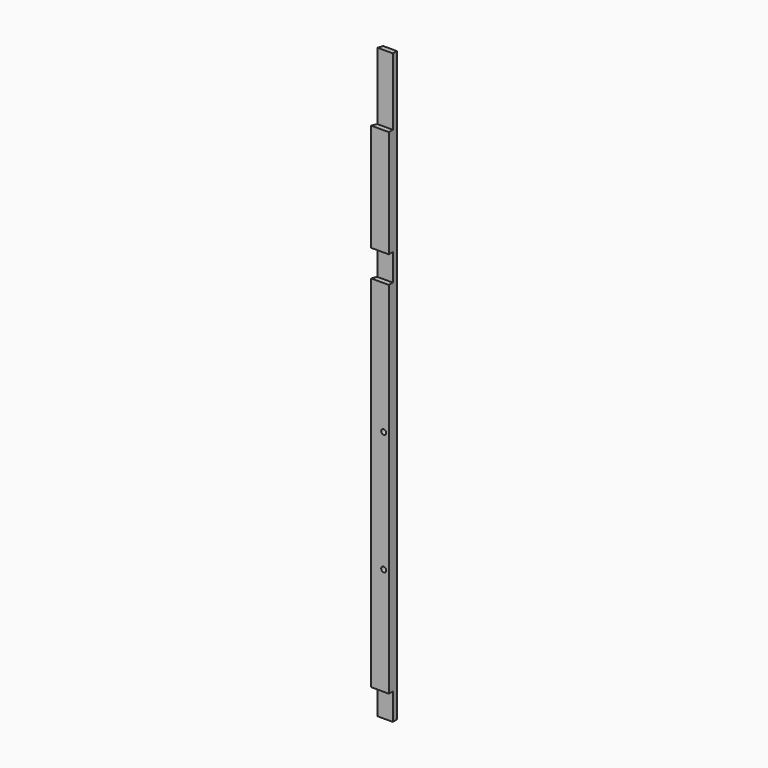
from build123d import *

# Parameters (mm, degrees)
F1_DEPTH = 1111.25
F2_W     = 122.435573
F2_H     = 50.8
F2_W_2   = 93.867282
F2_W_3   = 343.160421
F2_H_2   = 127
F3_DEPTH = 25.4
F4_R     = 0.79375
F5_DEPTH = 25.4
F6_R     = 4.7625
F7_DEPTH = 25.4


with BuildPart() as f1:
    # F0 (on Top) → F1 (new body)
    with BuildSketch(Plane.XY):
        Polygon((25.4, -9.525), (25.4, 9.525), (0, 9.525), (-7.890768, -9.525), align=None)
    extrude(amount=F1_DEPTH)

    # F2 (on Front) → F3 (cut)
    with BuildSketch(Plane.XZ):
        with Locations((22.446524, 25.4)):
            Rectangle(F2_W, F2_H)
        with Locations((2.720783, 755.65)):
            Rectangle(F2_W_2, F2_H)
        with Locations((-38.781822, 1047.75)):
            Rectangle(F2_W_3, F2_H_2)
    extrude(amount=F3_DEPTH, mode=Mode.SUBTRACT)

    # F4 (on Front) → F5 (cut)
    with BuildSketch(Plane.XZ):
        with Locations((12.7, 101.6)):
            Circle(F4_R)
        with Locations((12.7, 155.575)):
            Circle(F4_R)
        with Locations((12.7, 625.475)):
            Circle(F4_R)
        with Locations((12.7, 679.45)):
            Circle(F4_R)
        with Locations((-12.7, 625.475)):
            Circle(F4_R)
        with Locations((-12.7, 679.45)):
            Circle(F4_R)
        with Locations((-12.7, 101.6)):
            Circle(F4_R)
        with Locations((-12.7, 155.575)):
            Circle(F4_R)
    extrude(amount=-F5_DEPTH, mode=Mode.SUBTRACT)

    # F6 (on Front) → F7 (cut)
    with BuildSketch(Plane.XZ):
        with Locations((15.875, 254)):
            Circle(F6_R)
        with Locations((15.875, 482.6)):
            Circle(F6_R)
    extrude(amount=F7_DEPTH, mode=Mode.SUBTRACT)


solid = f1.part
